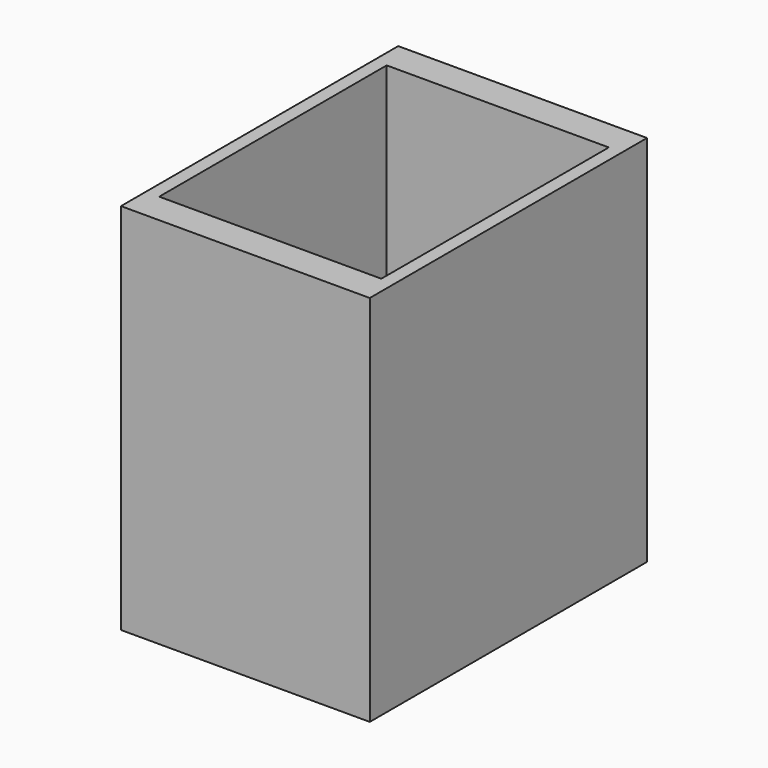
from build123d import *

# Parameters (mm, degrees)
SKETCH_W      = 28
SKETCH_H      = 39
SKETCH_W_2    = 25
SKETCH_H_2    = 32
PAD_DEPTH     = 40
SKETCH001_W   = 28
SKETCH001_H   = 39
SKETCH001_W_2 = 15
SKETCH001_H_2 = 5
PAD001_DEPTH  = 2


with BuildPart() as part:
    # Sketch → Pad (new body)
    with BuildSketch(Plane.XY):
        with Locations((14, 19.5)):
            Rectangle(SKETCH_W, SKETCH_H)
        with Locations((14, 19.5)):
            Rectangle(SKETCH_W_2, SKETCH_H_2, mode=Mode.SUBTRACT)
    extrude(amount=PAD_DEPTH)

    # Sketch001 (on Face9 of Pad) → Pad001 (join)
    with BuildSketch(Plane(origin=(0, 0, 0), x_dir=(1, 0, 0), z_dir=(0, 0, -1))):
        with Locations((14, -19.5)):
            Rectangle(SKETCH001_W, SKETCH001_H)
        with Locations((14, -7.5)):
            Rectangle(SKETCH001_W_2, SKETCH001_H_2, mode=Mode.SUBTRACT)
    extrude(amount=PAD001_DEPTH)


solid = part.part
